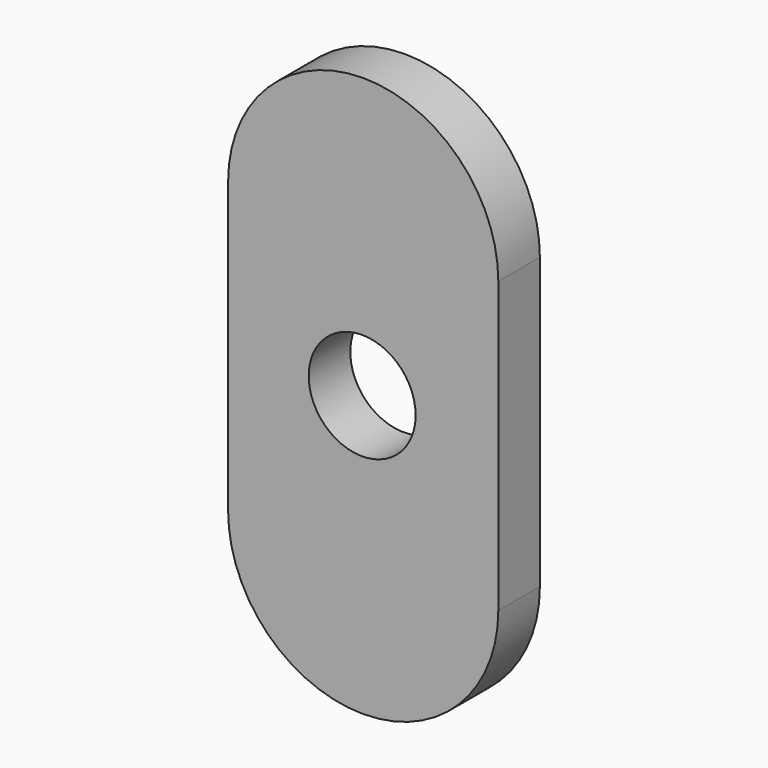
from build123d import *

# Parameters (mm, degrees)
F0_R     = 6.52874
F1_DEPTH = 6.35


with BuildPart() as f1:
    # F0 (on Front) → F1 (new body)
    with BuildSketch(Plane.XZ):
        with BuildLine():
            ThreePointArc((-22.86, 40.926772), (-39.359759, 57.426531), (-55.859517, 40.926772))
            Line((-55.859517, 40.926772), (-55.859517, 5.530645))
            ThreePointArc((-55.859517, 5.530645), (-39.359759, -10.969114), (-22.86, 5.530645))
            Line((-22.86, 5.530645), (-22.86, 40.926772))
        make_face()
        with Locations((-39.487932, 23.228709)):
            Circle(F0_R, mode=Mode.SUBTRACT)
    extrude(amount=F1_DEPTH)


solid = f1.part
